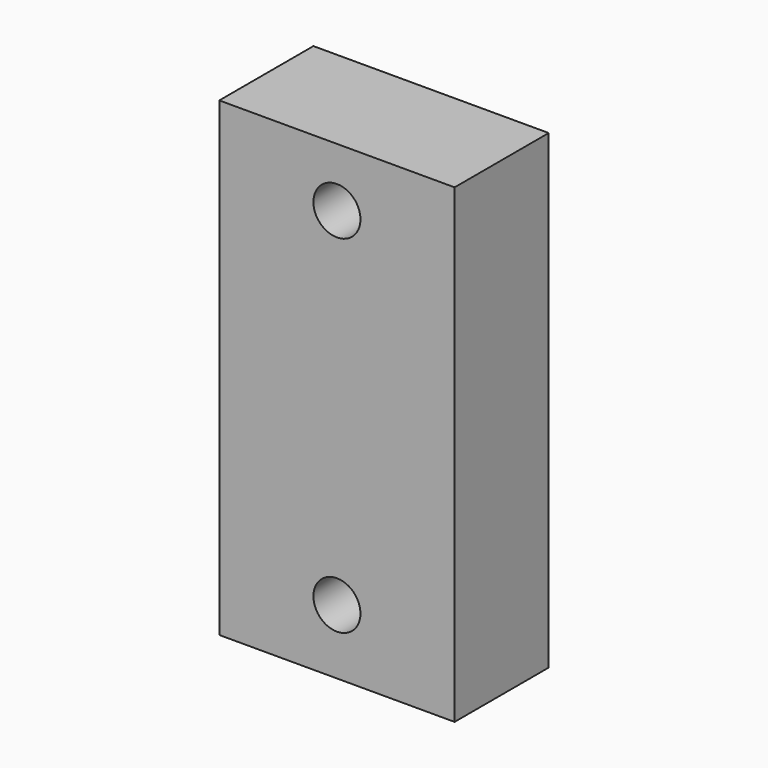
from build123d import *

# Parameters (mm, degrees)
F0_W     = 40
F0_H     = 20
F1_DEPTH = 80
F3_D     = 8


with BuildPart() as f1:
    # F0 (on Top) → F1 (new body)
    with BuildSketch(Plane.XY):
        Rectangle(F0_W, F0_H)
    extrude(amount=F1_DEPTH)

    # F3 (through all)
    with Locations(Plane.XZ.offset(10)):
        with Locations((0, 70), (0, 11)):
            Hole(F3_D / 2)


solid = f1.part
